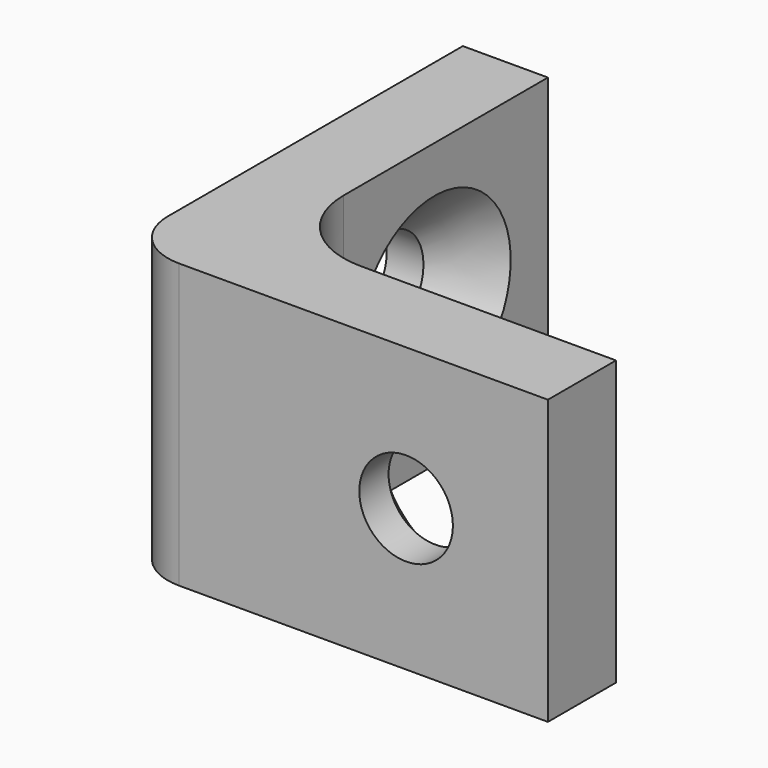
from build123d import *

# Parameters (mm, degrees)
F1_DEPTH       = 10
F3_D           = 3.3
F3_CSINK_D     = 6.72
F3_CSINK_ANGLE = 90
F5_D           = 3.3
F5_CSINK_D     = 6.72
F5_CSINK_ANGLE = 90
F6_R           = 2


with BuildPart() as f1:
    # F0 (on Top) → F1 (new body)
    with BuildSketch(Plane.XY):
        with BuildLine():
            Line((0, 15), (0, 0))
            Line((0, 0), (15, 0))
            Line((15, 0), (15, 3))
            Line((15, 3), (6, 3))
            ThreePointArc((6, 3), (3.8786796564, 3.8786796564), (3, 6))
            Line((3, 6), (3, 15))
            Line((3, 15), (0, 15))
        make_face()
    extrude(amount=F1_DEPTH)

    # F3 (through all)
    with Locations(Plane.YZ.offset(3)):
        with Locations((10, 5)):
            CounterSinkHole(F3_D / 2, F3_CSINK_D / 2, counter_sink_angle=F3_CSINK_ANGLE)

    # F5 (through all)
    with Locations(Plane(origin=(0, 3, 0), x_dir=(-1, 0, 0), z_dir=(0, 1, 0))):
        with Locations((-10, 5)):
            CounterSinkHole(F5_D / 2, F5_CSINK_D / 2, counter_sink_angle=F5_CSINK_ANGLE)

    # F6
    f6_edges = [f1.edges().sort_by_distance(p)[0] for p in [
        (0, 0, 5),
    ]]
    fillet(f6_edges, radius=F6_R)


solid = f1.part
